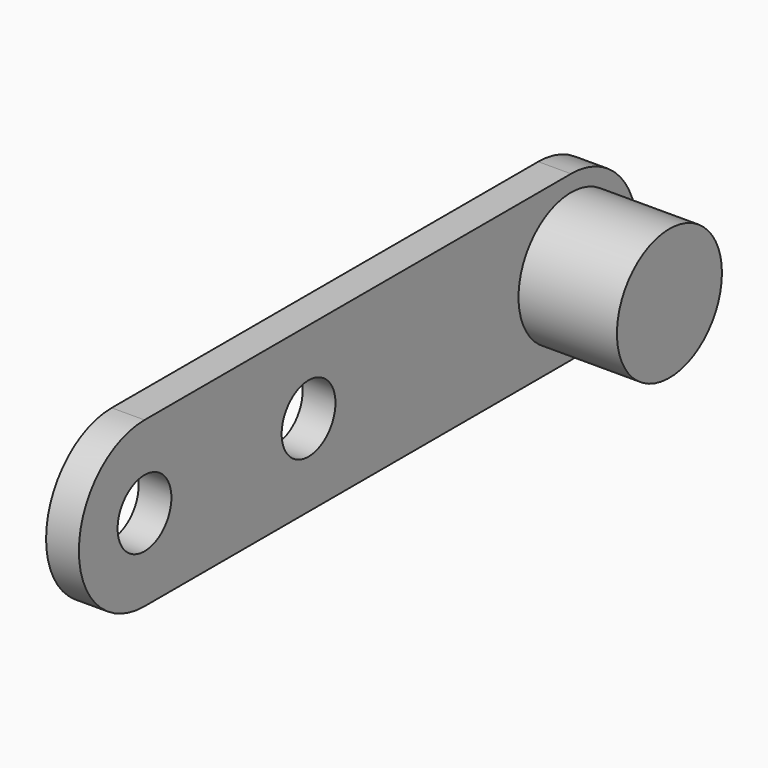
from build123d import *

# Parameters (mm, degrees)
F0_R     = 4.1
F1_DEPTH = 4
F2_R     = 8
F2_R_2   = 4
F3_DEPTH = 16
F4_DEPTH = 2


with BuildPart() as f1:
    # F0 (on Right) → F1 (new body)
    with BuildSketch(Plane.YZ):
        with BuildLine():
            Line((65, 10), (0, 10))
            ThreePointArc((0, 10), (-10, 0), (0, -10))
            Line((0, -10), (65, -10))
            ThreePointArc((65, -10), (75, 0), (65, 10))
        make_face()
        Circle(F0_R, mode=Mode.SUBTRACT)
        with Locations((25, 0)):
            Circle(F0_R, mode=Mode.SUBTRACT)
    extrude(amount=F1_DEPTH)

    # F2 (on Right) → F3 (join)
    with BuildSketch(Plane.YZ):
        with Locations((65, 0)):
            Circle(F2_R)
        with Locations((65, 0)):
            Circle(F2_R_2, mode=Mode.SUBTRACT)
        with Locations((65, 0)):
            Circle(F2_R_2)
    extrude(amount=F3_DEPTH)

    # F2 (on Right) → F4 (join)
    with BuildSketch(Plane.YZ):
        with Locations((65, 0)):
            Circle(F2_R_2)
    extrude(amount=-F4_DEPTH)


solid = f1.part
